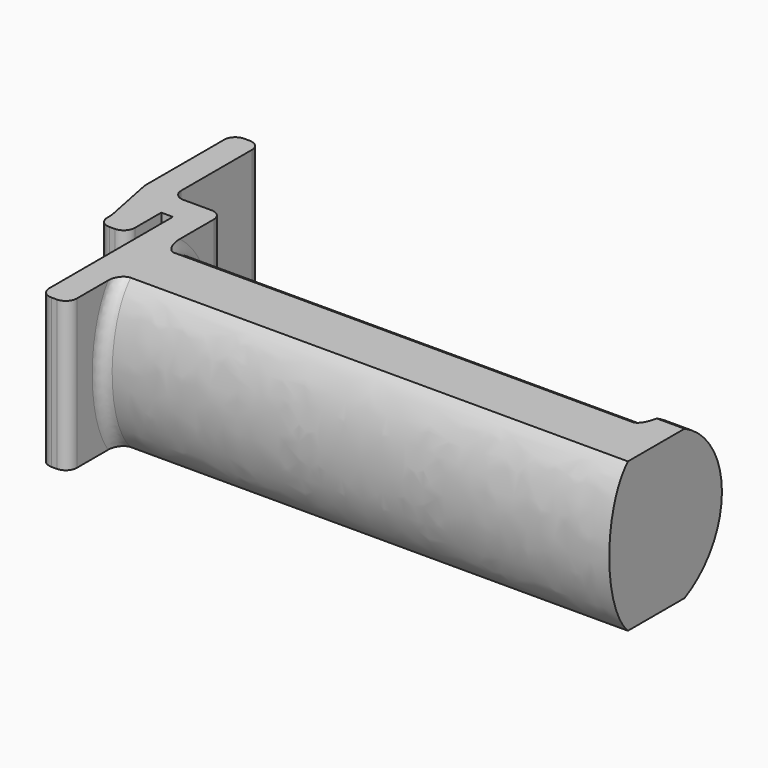
from build123d import *

# Parameters (mm, degrees)
F3_DEPTH = 13.5
F5_DEPTH = 92
F7_DEPTH = 5
F8_R     = 2


with BuildPart() as f3:
    # F2 (on Top) → F3 (new body, symmetric)
    with BuildSketch(Plane.XY):
        with BuildLine():
            ThreePointArc((-12.1, -11), (-11.5142135624, -12.4142135624), (-10.1, -13))
            Line((-10.1, -13), (-9.1, -13))
            ThreePointArc((-9.1, -13), (-7.6857864376, -12.4142135624), (-7.1, -11))
            Line((-7.1, -11), (-7.1, -5))
            Line((-7.1, -5), (-5, -5))
            Line((-5, -5), (-5, -33))
            ThreePointArc((-5, -33), (-4.4142135624, -34.4142135624), (-3, -35))
            Line((-3, -35), (-2, -35))
            ThreePointArc((-2, -35), (-0.5857864376, -34.4142135624), (0, -33))
            Line((0, -33), (0, -2))
            ThreePointArc((0, -2), (-0.5857864376, -0.5857864376), (-2, 0))
            Line((-2, 0), (-7.1, 0))
            ThreePointArc((-7.1, 0), (-8.5142135624, 0.5857864376), (-9.1, 2))
            Line((-9.1, 2), (-9.1, 18))
            ThreePointArc((-9.1, 18), (-9.6857864376, 19.4142135624), (-11.1, 20))
            Line((-11.1, 20), (-12.1, 20))
            ThreePointArc((-12.1, 20), (-13.5142135624, 19.4142135624), (-14.1, 18))
            Line((-14.1, 18), (-14.1, 0.495097568))
            ThreePointArc((-14.1, 0.495097568), (-14.0756666333, 0.0024094781), (-14.0029033785, -0.4854831077))
            Line((-14.0029033785, -0.4854831077), (-12.1970966215, -9.5145168923))
            ThreePointArc((-12.1970966215, -9.5145168923), (-12.1243333667, -10.0024094781), (-12.1, -10.495097568))
            Line((-12.1, -10.495097568), (-12.1, -11))
        make_face()
    extrude(amount=F3_DEPTH, both=True)

    # F4 (on face) → F5 (join)
    with BuildSketch(Plane.YZ):
        with BuildLine():
            Line((-23.2691742077, -13.5), (-16.7308257923, -13.5))
            add(Edge.make_bspline(
                [(-16.7308257923, -13.5), (-2.7938199597, 0), (-16.7308257923, 13.5)],
                knots=[0.4510268118, 0.4510268118, 0.4510268118, 2.6905658418, 2.6905658418, 2.6905658418], degree=2, weights=[1, 0.4358898944, 1]))
            Line((-16.7308257923, 13.5), (-23.2691742077, 13.5))
            add(Edge.make_bspline(
                [(-23.2691742077, 13.5), (-37.2061800403, 0), (-23.2691742077, -13.5)],
                knots=[3.5926194654, 3.5926194654, 3.5926194654, 5.8321584954, 5.8321584954, 5.8321584954], degree=2, weights=[1, 0.4358898944, 1]))
        make_face()
        with BuildLine():
            Line((-16.7308257923, -13.5), (-13.4616515847, -13.5))
            ThreePointArc((-13.4616515847, -13.5), (-5, 0), (-13.4616515847, 13.5))
            Line((-13.4616515847, 13.5), (-16.7308257923, 13.5))
            add(Edge.make_bspline(
                [(-16.7308257923, -13.5), (-2.7938199597, 0), (-16.7308257923, 13.5)],
                knots=[0.4510268118, 0.4510268118, 0.4510268118, 2.6905658418, 2.6905658418, 2.6905658418], degree=2, weights=[1, 0.4358898944, 1]))
        make_face()
    extrude(amount=F5_DEPTH)

    # F6 (on face) → F7 (join)
    with BuildSketch(Plane.YZ.offset(92)):
        with BuildLine():
            Line((-10.4616515847, 13.5), (-13.4616515847, 13.5))
            ThreePointArc((-13.4616515847, 13.5), (-5, 0), (-13.4616515847, -13.5))
            Line((-13.4616515847, -13.5), (-10.4616515847, -13.5))
            ThreePointArc((-10.4616515847, -13.5), (-2, 0), (-10.4616515847, 13.5))
        make_face()
    extrude(amount=-F7_DEPTH)

    # F8
    f8_edges = [f3.edges().sort_by_distance(p)[0] for p in [
        (0, -5, 0),
        (0, -27.5, -0.000816),
        (87, -5, 0),
    ]]
    fillet(f8_edges, radius=F8_R)


solid = f3.part
